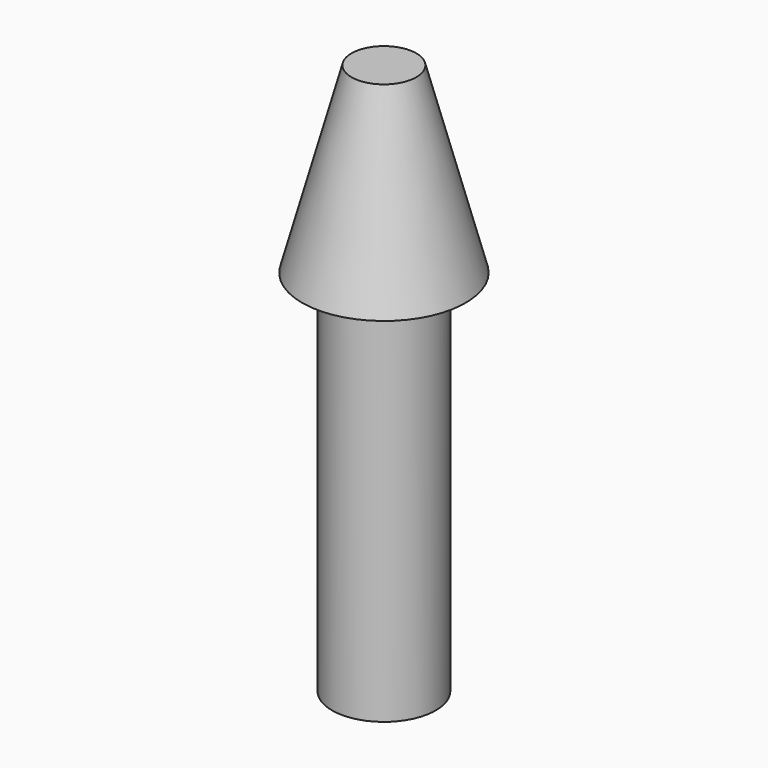
from build123d import *


with BuildPart() as part:
    # Sketch → Revolution (revolve)
    with BuildSketch(Plane.XZ):
        Polygon((0, 0), (-8, 0), (-8, 60), (-12.617651, 56.840958), (-5, 85), (0, 85), align=None)
    revolve(axis=Axis((0, 0, 0), (0, 0, 1)))


solid = part.part
